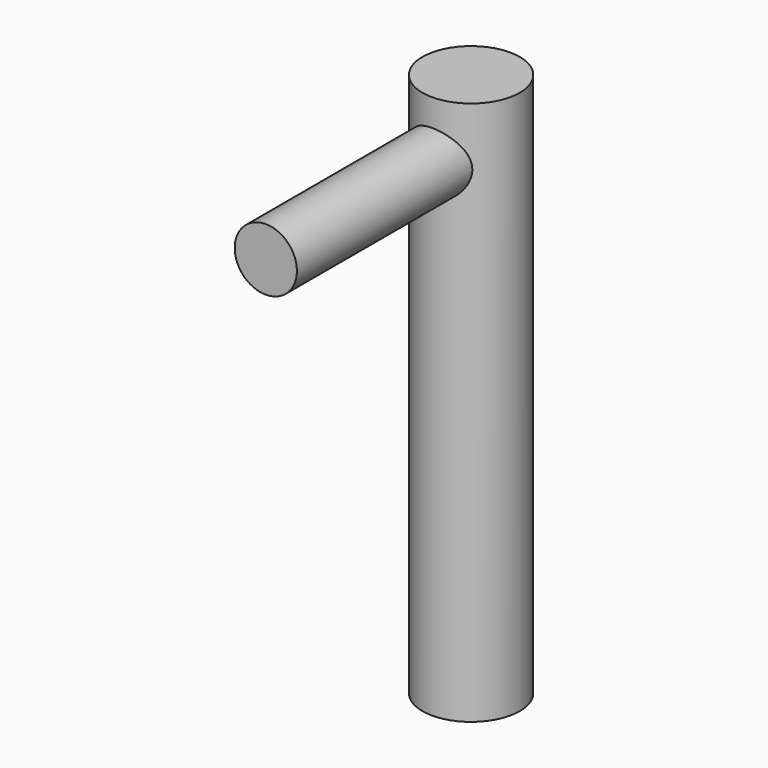
from build123d import *

# Parameters (mm, degrees)
F1_R          = 6.25
F2_DEPTH      = 30
F2_DEPTH_BACK = 40
F0_R          = 4


with BuildPart() as f2:
    # F1 (on Top) → F2 (new body, two sides)
    with BuildSketch(Plane.XY) as f2_sk:
        with Locations((0, 32.9980105162)):
            Circle(F1_R)
    extrude(amount=F2_DEPTH)
    extrude(f2_sk.sketch, amount=-F2_DEPTH_BACK)

    # F0 (on Front) → F3 (join, up to the next surface of F2)
    with BuildSketch(Plane.XZ):
        with Locations((0, 22.5179065019)):
            Circle(F0_R)
    extrude(until=Until.NEXT, dir=(0, 1, 0))


solid = f2.part
